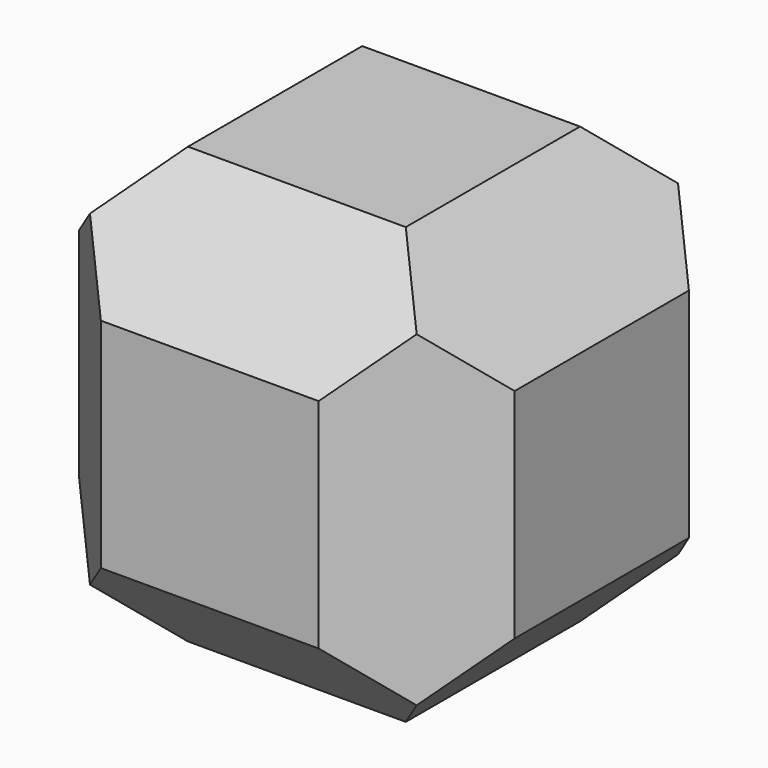
from build123d import *

# Parameters (mm, degrees)
F1_DEPTH = 38.1
F2_DEPTH = 38.1
F4_DEPTH = 38.1
F5_DEPTH = 38.1
F7_DEPTH = 38.1
F8_DEPTH = 38.1


with BuildPart() as f1:
    # F0 (on Front) → F1 (new body)
    with BuildSketch(Plane.XZ):
        Polygon((-19.05, 38.1), (-38.1, 19.05), (-38.1, -19.05), (-19.05, -38.1), (19.05, -38.1), (38.1, -19.05), (38.1, 19.05), (19.05, 38.1), align=None)
    extrude(amount=F1_DEPTH)

    # F0 (on Front) → F2 (join)
    with BuildSketch(Plane.XZ):
        Polygon((-19.05, 38.1), (-38.1, 19.05), (-38.1, -19.05), (-19.05, -38.1), (19.05, -38.1), (38.1, -19.05), (38.1, 19.05), (19.05, 38.1), align=None)
    extrude(amount=-F2_DEPTH)

    # F3 (on Right) → F4 (cut)
    with BuildSketch(Plane.YZ):
        Polygon((-38.1, 38.1), (-38.1, 19.05), (-19.05, 38.1), align=None)
        Polygon((38.1, 38.1), (19.05, 38.1), (38.1, 19.05), align=None)
        Polygon((38.1, -19.05), (19.05, -38.1), (38.1, -38.1), align=None)
        Polygon((-19.05, -38.1), (-38.1, -19.05), (-38.1, -38.1), align=None)
    extrude(amount=-F4_DEPTH, mode=Mode.SUBTRACT)

    # F3 (on Right) → F5 (cut)
    with BuildSketch(Plane.YZ):
        Polygon((-38.1, 38.1), (-38.1, 19.05), (-19.05, 38.1), align=None)
        Polygon((38.1, 38.1), (19.05, 38.1), (38.1, 19.05), align=None)
        Polygon((38.1, -19.05), (19.05, -38.1), (38.1, -38.1), align=None)
        Polygon((-19.05, -38.1), (-38.1, -19.05), (-38.1, -38.1), align=None)
    extrude(amount=F5_DEPTH, mode=Mode.SUBTRACT)

    # F6 (on Top) → F7 (cut)
    with BuildSketch(Plane.XY):
        Polygon((38.1, -19.05), (19.05, -38.1), (38.1, -38.1), align=None)
        Polygon((19.05, 38.1), (38.1, 19.05), (38.1, 38.1), align=None)
        Polygon((-38.1, 38.1), (-38.1, 19.05), (-19.05, 38.1), align=None)
        Polygon((-38.1, -38.1), (-19.05, -38.1), (-38.1, -19.05), align=None)
    extrude(amount=-F7_DEPTH, mode=Mode.SUBTRACT)

    # F6 (on Top) → F8 (cut)
    with BuildSketch(Plane.XY):
        Polygon((38.1, -19.05), (19.05, -38.1), (38.1, -38.1), align=None)
        Polygon((-38.1, -38.1), (-19.05, -38.1), (-38.1, -19.05), align=None)
        Polygon((-38.1, 38.1), (-38.1, 19.05), (-19.05, 38.1), align=None)
        Polygon((19.05, 38.1), (38.1, 19.05), (38.1, 38.1), align=None)
    extrude(amount=F8_DEPTH, mode=Mode.SUBTRACT)


solid = f1.part
